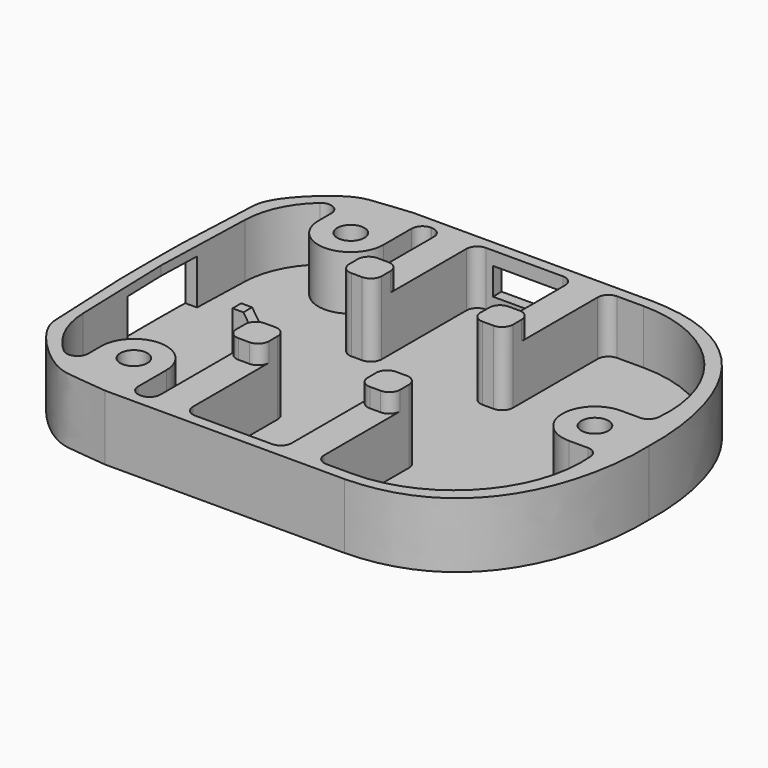
from build123d import *

# Parameters (mm, degrees)
PAD005_DEPTH    = 12
SKETCH025_R     = 2.5
POCKET019_DEPTH = 10
POCKET020_DEPTH = 1
SKETCH027_W     = 8
SKETCH027_H     = 8.3
POCKET021_DEPTH = 5
PAD006_DEPTH    = 3.5
SKETCH029_W     = 12.5
SKETCH029_H     = 5
POCKET022_DEPTH = 2


with BuildPart() as part:
    # Sketch024 → Pad005 (new body)
    with BuildSketch(Plane.XY):
        with BuildLine():
            ThreePointArc((0, 0), (0.0125001507, 3.6000868045), (0.05, 7.2))
            Line((0.05, 7.2), (0.75, 22.55))
            add(Edge.make_bspline(
                [(0.75, 22.55), (0.790433, 24.50555), (2.8995135699, 28.3383927733), (10.6468681476, 35.231617337), (14.5053016695, 34.8194742751), (20.1, 35.5)],
                knots=[0, 0, 0, 0, 0.3333333333, 0.6666666667, 1, 1, 1, 1], degree=3))
            Line((20.1, 35.5), (64.2, 35.5))
            add(Edge.make_bspline(
                [(92, 0), (92.391037, 11.810127), (88.126587, 35.076866), (64.2, 35.5)],
                knots=[0, 0, 0, 0, 1, 1, 1, 1], degree=3))
            Line((92, 0), (0, 0))
        make_face()
    extrude(amount=PAD005_DEPTH)

    # Sketch025 (on Face8 of Pad005) → Pocket019 (cut)
    with BuildSketch(Plane.XY.offset(12)):
        with Locations((17, 25)):
            Circle(SKETCH025_R)
        with BuildLine():
            ThreePointArc((84.5, 0), (82, 2.5), (79.5, 0))
            Line((79.5, 0), (84.5, 0))
        make_face()
        with BuildLine():
            Line((2, 0), (2.5758571429, 18.6857169977))
            ThreePointArc((7.6817324497, 29.5040514173), (4.0036624605, 24.625907301), (2.5758571429, 18.6857169977))
            ThreePointArc((11, 28), (9.8256709089, 29.8216112511), (7.6817324497, 29.5040514173))
            Line((11, 25), (11, 28))
            ThreePointArc((11, 25), (17, 19), (23, 25))
            Line((23, 25), (23, 31.5))
            ThreePointArc((25, 33.5), (23.5857864376, 32.9142135624), (23, 31.5))
            Line((25.1, 33.5), (25, 33.5))
            ThreePointArc((27.1, 31.5), (26.5142135624, 32.9142135624), (25.1, 33.5))
            Line((27.1, 12), (27.1, 31.5))
            ThreePointArc((27.1, 12), (27.6857864376, 10.5857864376), (29.1, 10))
            Line((31.1, 10), (29.1, 10))
            ThreePointArc((31.1, 10), (32.5142135624, 10.5857864376), (33.1, 12))
            Line((33.1, 31.5), (33.1, 12))
            ThreePointArc((35.1, 33.5), (33.6857864376, 32.9142135624), (33.1, 31.5))
            Line((49.3, 33.5), (35.1, 33.5))
            ThreePointArc((51.3, 31.5), (50.7142135624, 32.9142135624), (49.3, 33.5))
            Line((51.3, 12), (51.3, 31.5))
            ThreePointArc((51.3, 12), (51.8857864376, 10.5857864376), (53.3, 10))
            Line((55.3, 10), (53.3, 10))
            ThreePointArc((55.3, 10), (56.7142135624, 10.5857864376), (57.3, 12))
            Line((57.3, 31.4999999999), (57.3, 12))
            ThreePointArc((59.3, 33.4999999999), (57.8857864376, 32.9142135623), (57.3, 31.4999999999))
            Line((59.3, 33.5), (64.2, 33.5))
            ThreePointArc((87.491325765, 7.8139309331), (81.5019467421, 25.7859071373), (64.2, 33.5))
            ThreePointArc((85.5, 6), (86.8468225322, 6.521463877), (87.491325765, 7.8139309331))
            Line((82, 6), (85.5, 6))
            ThreePointArc((82, 6), (77.7573593129, 4.2426406871), (76, 0))
            Line((22, 0), (76, 0))
            Line((22, 1), (22, 0))
            Line((16, 1), (22, 1))
            Line((16, 0), (16, 1))
            Line((2, 0), (16, 0))
        make_face()
    extrude(amount=-POCKET019_DEPTH, mode=Mode.SUBTRACT)

    # Sketch026 (on Face3 of Pocket019) → Pocket020 (cut)
    with BuildSketch(Plane.XZ):
        Polygon((22, 12), (22, 4), (18, 10), (16, 10), (16, 12), align=None)
    extrude(amount=-POCKET020_DEPTH, mode=Mode.SUBTRACT)

    # Sketch027 → Pocket021 (cut)
    with BuildSketch(Plane.YZ):
        with Locations((4, 6.15)):
            Rectangle(SKETCH027_W, SKETCH027_H)
    extrude(amount=POCKET021_DEPTH, mode=Mode.SUBTRACT)

    # Sketch028 (on Face8 of Pocket021) → Pad006 (join)
    with BuildSketch(Plane.XY.offset(12)):
        with BuildLine():
            ThreePointArc((31.1, 10), (32.5142135624, 10.5857864376), (33.1, 12))
            Line((33.1, 12), (33.1, 14))
            ThreePointArc((33.1, 14), (32.5142135624, 15.4142135624), (31.1, 16))
            Line((29.1, 16), (31.1, 16))
            ThreePointArc((29.1, 16), (27.6857864376, 15.4142135624), (27.1, 14))
            Line((27.1, 12), (27.1, 14))
            ThreePointArc((27.1, 12), (27.6857864376, 10.5857864376), (29.1, 10))
            Line((29.1, 10), (31.1, 10))
        make_face()
        with BuildLine():
            ThreePointArc((51.3, 12), (51.8857864376, 10.5857864376), (53.3, 10))
            Line((53.3, 10), (55.3, 10))
            ThreePointArc((55.3, 10), (56.7142135624, 10.5857864376), (57.3, 12))
            Line((57.3, 12), (57.3, 14))
            ThreePointArc((57.3, 14), (56.7142135624, 15.4142135624), (55.3, 16))
            Line((53.3, 16), (55.3, 16))
            ThreePointArc((53.3, 16), (51.8857864376, 15.4142135624), (51.3, 14))
            Line((51.3, 12), (51.3, 14))
        make_face()
    extrude(amount=PAD006_DEPTH)

    # Mirrored002: part across XZ


with BuildPart() as part_1:
    add(part.part)
    add(part.part.mirror(Plane.XZ))

    # Sketch029 (on Face33 of Mirrored002) → Pocket022 (cut)
    with BuildSketch(Plane(origin=(0, 35.5, 0), x_dir=(-1, 0, 0), z_dir=(0, 1, 0))):
        with Locations((-42.65, 7)):
            Rectangle(SKETCH029_W, SKETCH029_H)
    extrude(amount=-POCKET022_DEPTH, mode=Mode.SUBTRACT)


with BuildPart() as part_2:
    # Body004 placement: moved
    add(part_1.part.moved(Location((0, 0, -12))))


solid = part_2.part
